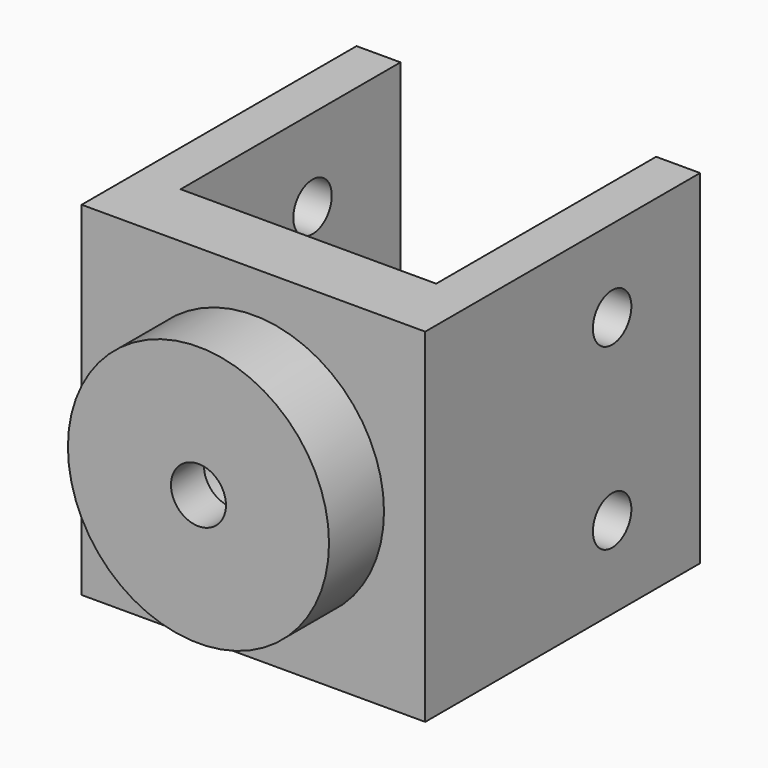
from build123d import *

# Parameters (mm, degrees)
F1_DEPTH = 25
F2_R     = 9.5
F3_DEPTH = 5
F4_R     = 2
F5_DEPTH = 30.001
F6_R     = 4.5
F7_DEPTH = 7
F8_R     = 1.75
F9_DEPTH = 25.001


with BuildPart() as f1:
    # F0 (on Top) → F1 (new body)
    with BuildSketch(Plane.XY):
        Polygon((-12.365591, 25), (-12.365591, 0), (12.634409, 0), (12.634409, 25), (9.434409, 25), (9.434409, 5), (-9.165591, 5), (-9.165591, 25), align=None)
    extrude(amount=F1_DEPTH)

    # F2 (on face) → F3 (join)
    with BuildSketch(Plane.XZ):
        with Locations((0.134409, 12.5)):
            Circle(F2_R)
    extrude(amount=F3_DEPTH)

    # F4 (on face) → F5 (cut, through all)
    with BuildSketch(Plane.XZ.offset(5)):
        with Locations((0.134409, 12.5)):
            Circle(F4_R)
    extrude(amount=-F5_DEPTH, mode=Mode.SUBTRACT)

    # F6 (on face) → F7 (cut)
    with BuildSketch(Plane(origin=(0, 5, 0), x_dir=(-1, 0, 0), z_dir=(0, 1, 0))):
        with Locations((-0.134409, 12.5)):
            Circle(F6_R)
    extrude(amount=-F7_DEPTH, mode=Mode.SUBTRACT)

    # F8 (on face) → F9 (cut, through all)
    with BuildSketch(Plane(origin=(-12.365591, 0, 0), x_dir=(0, -1, 0), z_dir=(-1, 0, 0))):
        with Locations((-17, 6)):
            Circle(F8_R)
        with Locations((-17, 19)):
            Circle(F8_R)
    extrude(amount=-F9_DEPTH, mode=Mode.SUBTRACT)


solid = f1.part
